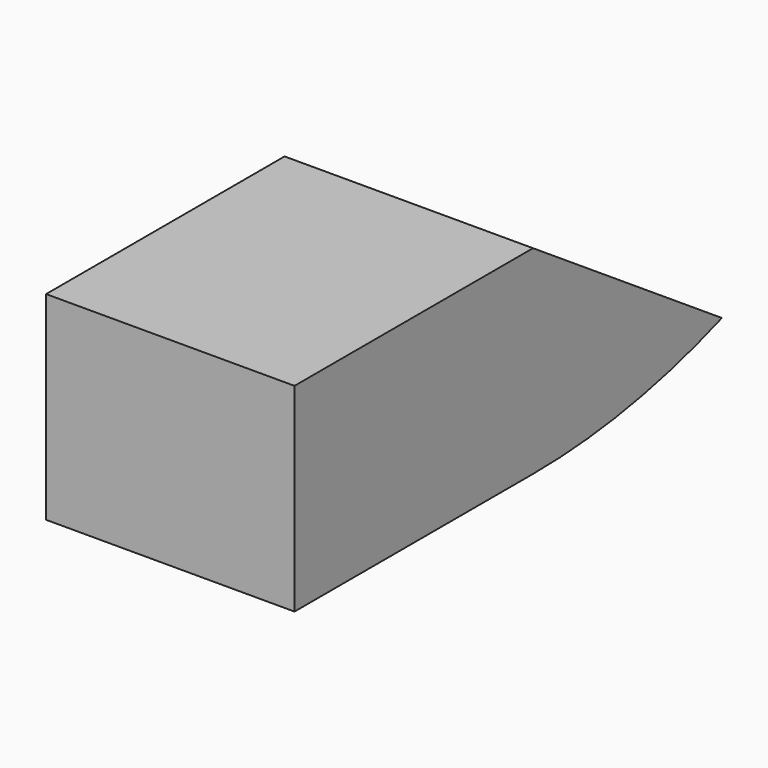
from build123d import *

# Parameters (mm, degrees)
F1_DEPTH = 25
F3_DEPTH = 25


with BuildPart() as f1:
    # F0 (on Right) → F1 (new body)
    with BuildSketch(Plane.YZ):
        Polygon((30, 0), (0, 0), (0, -20), (60, -20), align=None)
    extrude(amount=F1_DEPTH)

    # F2 (on face) → F3 (cut)
    with BuildSketch(Plane.YZ.offset(25)):
        with BuildLine():
            Line((30, -20), (0, -20))
            Line((0, -20), (0, -28))
            Line((0, -28), (72, -28))
            Line((72, -28), (53.764115, -15.842743))
            ThreePointArc((53.764115, -15.842743), (42.062503, -18.952854), (30, -20))
        make_face()
    extrude(amount=-F3_DEPTH, mode=Mode.SUBTRACT)


solid = f1.part
